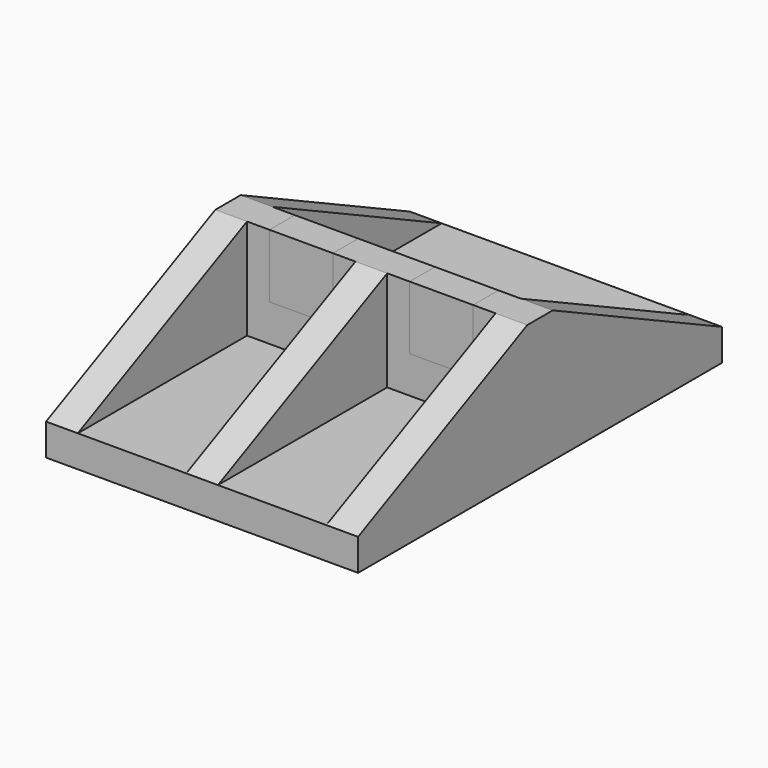
from build123d import *

# Parameters (mm, degrees)
F0_W     = 59
F0_H     = 86
F1_DEPTH = 6
F3_DEPTH = 19
F5_DEPTH = 59.001
F6_W     = 12
F6_H     = 12
F7_DEPTH = 6


with BuildPart() as f1:
    # F0 (on Top) → F1 (new body)
    with BuildSketch(Plane.XY):
        Rectangle(F0_W, F0_H)
    extrude(amount=F1_DEPTH)

    # F2 (on face) → F3 (join)
    with BuildSketch(Plane.XY.offset(6)):
        Polygon((-23.5, 43), (-29.5, 43), (-29.5, -43), (-23.5, -43), (-23.5, -3), (-3, -3), (-3, -43), (3, -43), (3, -3), (23.5, -3), (23.5, -43), (29.5, -43), (29.5, 43), (23.5, 43), (23.5, 3), (-23.5, 3), align=None)
    extrude(amount=F3_DEPTH)

    # F4 (on face) → F5 (cut, through all)
    with BuildSketch(Plane.YZ.offset(29.5)):
        Polygon((-43, 25), (-43, 6), (-3, 25), align=None)
        Polygon((43, 25), (3, 25), (43, 6), align=None)
    extrude(amount=-F5_DEPTH, mode=Mode.SUBTRACT)


with BuildPart() as f7:
    # F6 (on face) → F7 (new body)
    with BuildSketch(Plane.XZ.offset(3)):
        with Locations((-13.25, 19)):
            Rectangle(F6_W, F6_H)
        with Locations((13.25, 19)):
            Rectangle(F6_W, F6_H)
    extrude(amount=-F7_DEPTH)


solid = Compound([f1.part, f7.part])
